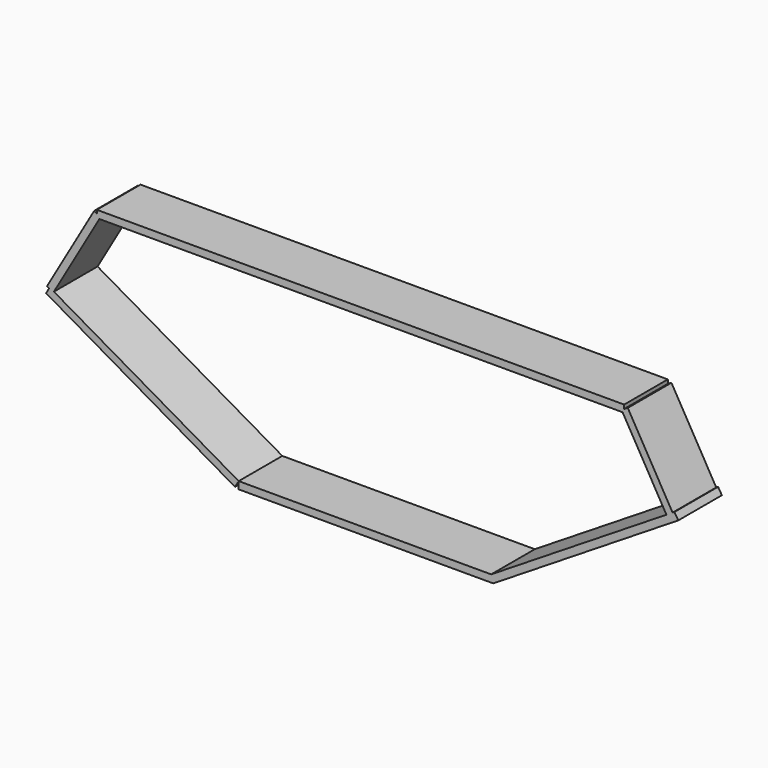
from build123d import *

# Parameters (mm, degrees)
BOX001002001_W                     = 70
BOX001002001_H                     = 15
BOX001002001_DEPTH                 = 2
BOX001002001002_W                  = 60
BOX001002001002_H                  = 15
BOX001002001002_DEPTH              = 2
BOX001002001002_PLACEMENT_ANGLE    = 209.99999
BOX001002001001_W                  = 60
BOX001002001001_H                  = 15
BOX001002001001_DEPTH              = 2
BOX001002001001_PITCH_ANGLE        = -31.999951
BOX001002001003_W                  = 26
BOX001002001003_H                  = 15
BOX001002001003_DEPTH              = 2
BOX001002001003_PLACEMENT_ANGLE    = 60.000023
BOX001002001003001_W               = 26
BOX001002001003001_H               = 15
BOX001002001003001_DEPTH           = 2
BOX001002001003001_PLACEMENT_ANGLE = 119.999977
BOX001002_W                        = 145
BOX001002_H                        = 15
BOX001002_DEPTH                    = 2


with BuildPart() as box001002001:
    # Box001002001 → Box001002001 (new body)
    with BuildSketch(Plane(origin=(49, -20, -23), x_dir=(1, 0, 0), z_dir=(0, 0, 1))):
        with Locations((35, 7.5)):
            Rectangle(BOX001002001_W, BOX001002001_H)
    extrude(amount=BOX001002001_DEPTH)


with BuildPart() as box001002001002:
    # Box001002001002 → Box001002001002 (new body)
    with BuildSketch(Plane.XY):
        with Locations((30, 7.5)):
            Rectangle(BOX001002001002_W, BOX001002001002_H)
    extrude(amount=BOX001002001002_DEPTH)


with BuildPart() as box001002001002_1:
    # Box001002001002 placement: moved
    add(box001002001002.part.moved(Location((49, -20, -21))).rotate(Axis((49, -20, -21), (0, 1, 0)), BOX001002001002_PLACEMENT_ANGLE))


with BuildPart() as box001002001001:
    # Box001002001001 → Box001002001001 (new body)
    with BuildSketch(Plane.XY):
        with Locations((30, 7.5)):
            Rectangle(BOX001002001001_W, BOX001002001001_H)
    extrude(amount=BOX001002001001_DEPTH)


with BuildPart() as box001002001001_1:
    # Box001002001001 pitch: moved
    add(box001002001001.part.rotate(Axis((0, 0, 0), (0, 1, 0)), BOX001002001001_PITCH_ANGLE))


with BuildPart() as box001002001001_2:
    # Box001002001001 placement: moved
    add(box001002001001_1.part.moved(Location((119, -20, -23))))


with BuildPart() as box001002001003:
    # Box001002001003 → Box001002001003 (new body)
    with BuildSketch(Plane.XY):
        with Locations((13, 7.5)):
            Rectangle(BOX001002001003_W, BOX001002001003_H)
    extrude(amount=BOX001002001003_DEPTH)


with BuildPart() as box001002001003_1:
    # Box001002001003 placement: moved
    add(box001002001003.part.moved(Location((-2, -20, 8))).rotate(Axis((-2, -20, 8), (0, -1, 0)), BOX001002001003_PLACEMENT_ANGLE))


with BuildPart() as box001002001003001:
    # Box001002001003001 → Box001002001003001 (new body)
    with BuildSketch(Plane.XY):
        with Locations((13, 7.5)):
            Rectangle(BOX001002001003001_W, BOX001002001003001_H)
    extrude(amount=BOX001002001003001_DEPTH)


with BuildPart() as box001002001003001_1:
    # Box001002001003001 placement: moved
    add(box001002001003001.part.moved(Location((169, -20, 9))).rotate(Axis((169, -20, 9), (0, -1, 0)), BOX001002001003001_PLACEMENT_ANGLE))


with BuildPart() as obj1:
    # Box001002 → Box001002 (new body)
    with BuildSketch(Plane(origin=(10, -20, 30), x_dir=(1, 0, 0), z_dir=(0, 0, 1))):
        with Locations((72.5, 7.5)):
            Rectangle(BOX001002_W, BOX001002_H)
    extrude(amount=BOX001002_DEPTH)

    # Fusion002001002: union Box001002001, Box001002001002, Box001002001001, Box001002001003, Box001002001003001
    add(box001002001.part)
    add(box001002001002_1.part)
    add(box001002001001_2.part)
    add(box001002001003_1.part)
    add(box001002001003001_1.part)


solid = obj1.part
